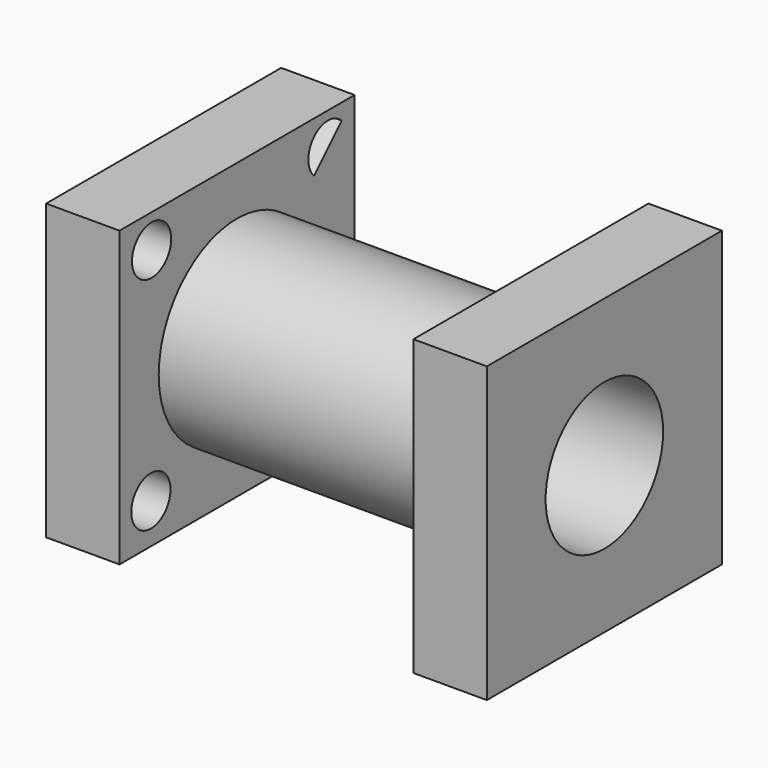
from build123d import *

# Parameters (mm, degrees)
F0_W      = 76.2
F0_H      = 76.2
F1_DEPTH  = 19.05
F2_R      = 25.4
F3_DEPTH  = 76.2
F4_W      = 76.2
F4_H      = 76.2
F4_R      = 25.4
F5_DEPTH  = 19.05
F6_R      = 25.4
F7_DEPTH  = 19.05
F9_R      = 19.05
F10_DEPTH = 114.3
F8_R      = 19.05
F11_DEPTH = 608.076
F13_R     = 6.35
F14_DEPTH = 50.546


with BuildPart() as f1:
    # F0 (on Right) → F1 (new body)
    with BuildSketch(Plane.YZ):
        Rectangle(F0_W, F0_H)
    extrude(amount=F1_DEPTH)

    # F2 (on face) → F3 (join)
    with BuildSketch(Plane(origin=(0, 0, 0), x_dir=(0, -1, 0), z_dir=(-1, 0, 0))):
        Circle(F2_R)
    extrude(amount=F3_DEPTH)


with BuildPart() as f5:
    # F4 (on face) → F5 (new body)
    with BuildSketch(Plane(origin=(-76.2, 0, 0), x_dir=(0, -1, 0), z_dir=(-1, 0, 0))):
        Rectangle(F4_W, F4_H)
        Circle(F4_R, mode=Mode.SUBTRACT)
    extrude(amount=F5_DEPTH)


with BuildPart() as f7:
    # F6 (on face) → F7 (new body)
    with BuildSketch(Plane(origin=(-76.2, 0, 0), x_dir=(0, -1, 0), z_dir=(-1, 0, 0))):
        Circle(F6_R)
    extrude(amount=F7_DEPTH)


with BuildPart() as f10_tool:
    # F9 (on face) → F10 (new body)
    with BuildSketch(Plane.YZ.offset(19.05)):
        Circle(F9_R)
    extrude(amount=-F10_DEPTH)


with BuildPart() as f1_1:
    add(f1.part)

    # F10: cut by f10_tool
    add(f10_tool.part, mode=Mode.SUBTRACT)

    # F8 (on face) → F11 (cut)
    with BuildSketch(Plane(origin=(-95.25, 0, 0), x_dir=(0, -1, 0), z_dir=(-1, 0, 0))):
        Circle(F8_R)
    extrude(amount=-F11_DEPTH, mode=Mode.SUBTRACT)


with BuildPart() as f7_1:
    add(f7.part)

    # F10: cut by f10_tool
    add(f10_tool.part, mode=Mode.SUBTRACT)


with BuildPart() as f5_1:
    add(f5.part)

    # F12: union F7, F1
    add(f7_1.part)
    add(f1_1.part)

    # F13 (on face) → F14 (cut)
    with BuildSketch(Plane(origin=(-95.25, 0, 0), x_dir=(0, -1, 0), z_dir=(-1, 0, 0))):
        with Locations((-29.2046008315, -27.7056374614)):
            Circle(F13_R)
        with Locations((27.7061383014, 29.4438616986)):
            Circle(F13_R)
        with BuildLine():
            ThreePointArc((-23.0938616986, 29.4438616986), (-27.0138219031, 35.3104967301), (-33.9339897591, 33.9339897591))
            Line((-33.9339897591, 33.9339897591), (-24.9537336381, 24.9537336381))
            ThreePointArc((-24.9537336381, 24.9537336381), (-23.5772266672, 27.0138219031), (-23.0938616986, 29.4438616986))
        make_face()
        with BuildLine():
            ThreePointArc((23.3369908748, -23.3369908748), (23.455271108, -32.1957655219), (32.3140457551, -32.3140457551))
            Line((32.3140457551, -32.3140457551), (23.3369908748, -23.3369908748))
        make_face()
        with BuildLine():
            Line((23.3369908748, -23.3369908748), (32.3140457551, -32.3140457551))
            ThreePointArc((32.3140457551, -32.3140457551), (33.7790689323, -30.213783607), (34.2953991685, -27.7056374614))
            ThreePointArc((34.2953991685, -27.7056374614), (30.2968994699, -21.8070828645), (23.3369908748, -23.3369908748))
        make_face()
    extrude(amount=-F14_DEPTH, mode=Mode.SUBTRACT)


solid = f5_1.part
